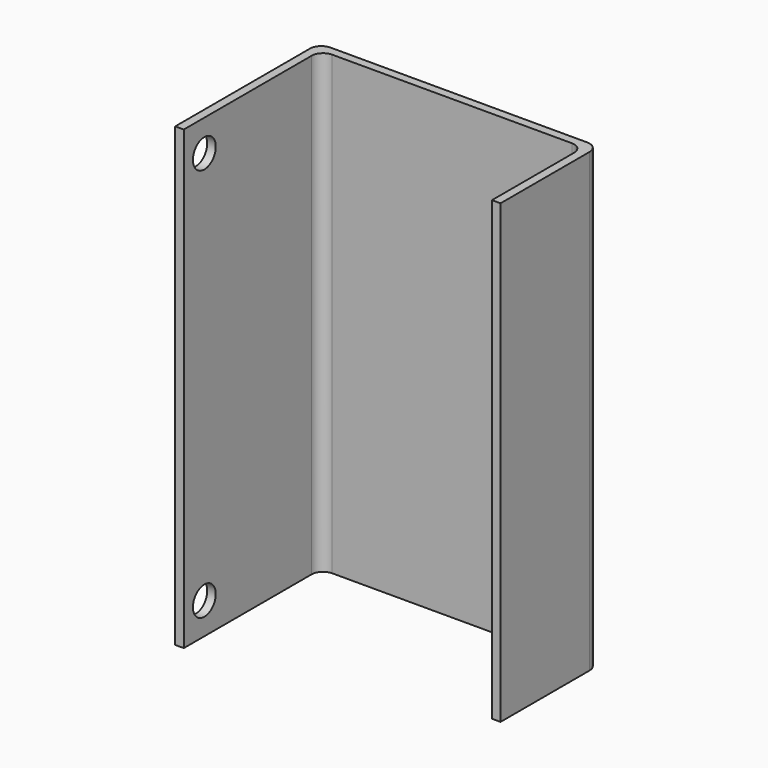
from build123d import *

# Parameters (mm, degrees)
F1_DEPTH = 80
F2_R     = 2.5
F3_DEPTH = 1.5


with BuildPart() as f1:
    # F0 (on Top) → F1 (new body)
    with BuildSketch(Plane.XY):
        with BuildLine():
            ThreePointArc((0, -2), (-0.585786, -0.585786), (-2, 0))
            Line((-2, 0), (-47, 0))
            ThreePointArc((-47, 0), (-48.414214, -0.585786), (-49, -2))
            Line((-49, -2), (-49, -31.5))
            Line((-49, -31.5), (-47.5, -31.5))
            Line((-47.5, -31.5), (-47.5, -3.5))
            ThreePointArc((-47.5, -3.5), (-46.914214, -2.085786), (-45.5, -1.5))
            Line((-45.5, -1.5), (-3.5, -1.5))
            ThreePointArc((-3.5, -1.5), (-2.085786, -2.085786), (-1.5, -3.5))
            Line((-1.5, -3.5), (-1.5, -21.5))
            Line((-1.5, -21.5), (0, -21.5))
            Line((0, -21.5), (0, -2))
        make_face()
    extrude(amount=F1_DEPTH)

    # F2 (on face) → F3 (cut, through all)
    with BuildSketch(Plane(origin=(-49, 0, 0), x_dir=(0, -1, 0), z_dir=(-1, 0, 0))):
        with Locations((27, 5.5)):
            Circle(F2_R)
        with Locations((27, 74.5)):
            Circle(F2_R)
    extrude(amount=-F3_DEPTH, mode=Mode.SUBTRACT)


solid = f1.part
